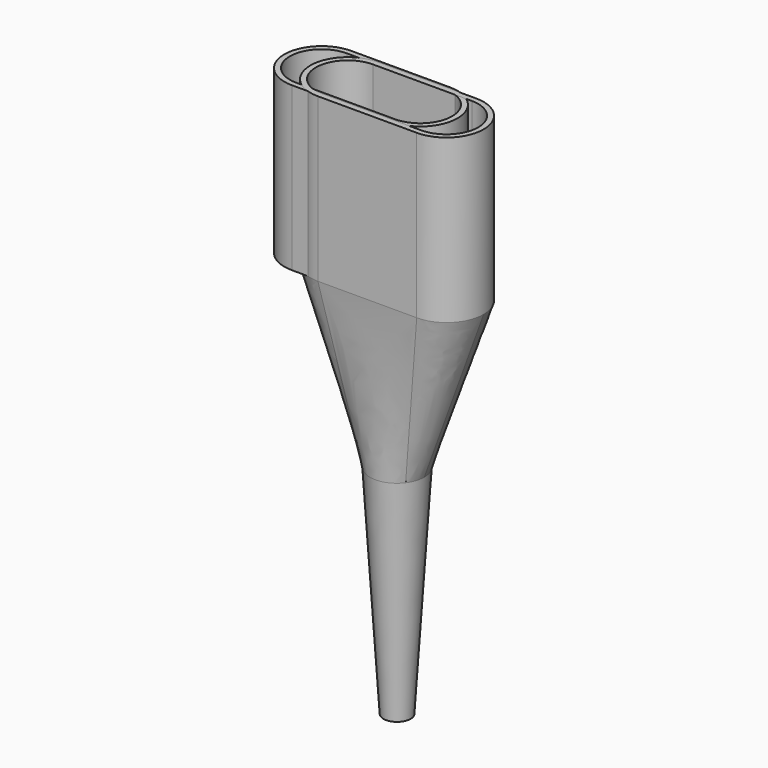
from build123d import *

# Parameters (mm, degrees)
PAD_DEPTH      = 30
THICKNESS_T    = -1
PAD001_DEPTH   = 30
THICKNESS001_T = -1
SKETCH006_R    = 5
SKETCH007_R    = 4
SKETCH010_R    = 5
SKETCH008_R    = 2.5
SKETCH011_R    = 4
SKETCH009_R    = 2


with BuildPart() as body:
    # Sketch001 → Pad (new body)
    with BuildSketch(Plane.XY):
        with BuildLine():
            Line((-14.186109, -6.501696), (4.013891, -6.501696))
            ThreePointArc((4.013891, -6.501696), (10.863891, 0.348304), (4.013891, 7.198304))
            Line((4.013891, 7.198304), (-14.186109, 7.198304))
            ThreePointArc((-14.186109, 7.198304), (-21.036109, 0.348304), (-14.186109, -6.501696))
        make_face()
    extrude(amount=PAD_DEPTH)

    # Thickness
    thickness_openings = [body.faces().sort_by_distance(p)[0] for p in [
        (-5.086109, 0.348304, 30),
        (-5.086109, 0.348304, 0),
    ]]
    offset(amount=THICKNESS_T, openings=thickness_openings)


with BuildPart() as body001:
    # Sketch → Pad001 (new body)
    with BuildSketch(Plane.XY):
        with BuildLine():
            Line((-9.1, -6.85), (9.1, -6.85))
            ThreePointArc((9.1, -6.85), (15.95, 0), (9.1, 6.85))
            Line((9.1, 6.85), (-9.1, 6.85))
            ThreePointArc((-9.1, 6.85), (-15.95, 0), (-9.1, -6.85))
        make_face()
    extrude(amount=PAD001_DEPTH)

    # Thickness001
    thickness001_openings = [body001.faces().sort_by_distance(p)[0] for p in [
        (0, 0, 30),
        (0, 0, 0),
    ]]
    offset(amount=THICKNESS001_T, openings=thickness001_openings)

    # Sketch004 → AdditiveLoft section 0
    with BuildSketch(Plane.XY):
        with BuildLine():
            Line((-9.1, -6.85), (9.1, -6.85))
            ThreePointArc((9.1, -6.85), (15.95, 0), (9.1, 6.85))
            Line((9.1, 6.85), (-9.1, 6.85))
            ThreePointArc((-9.1, 6.85), (-15.95, 0), (-9.1, -6.85))
        make_face()
    # Sketch006 (on DatumPlane) → AdditiveLoft section 1
    with BuildSketch(Plane(origin=(0, 0, -30), x_dir=(1, 0, 0), z_dir=(0, 0, -1))):
        Circle(SKETCH006_R)
    loft()

    # Sketch005 → SubtractiveLoft section 0
    with BuildSketch(Plane.XY):
        with BuildLine():
            Line((-9.1, -6), (9.1, -6))
            ThreePointArc((9.1, -6), (15.1, 0), (9.1, 6))
            Line((9.1, 6), (-9.1, 6))
            ThreePointArc((-9.1, 6), (-15.1, 0), (-9.1, -6))
        make_face()
    # Sketch007 (on DatumPlane) → SubtractiveLoft section 1
    with BuildSketch(Plane(origin=(0, 0, -30), x_dir=(1, 0, 0), z_dir=(0, 0, -1))):
        Circle(SKETCH007_R)
    loft(mode=Mode.SUBTRACT)

    # Sketch010 (on DatumPlane) → AdditiveLoft001 section 0
    with BuildSketch(Plane(origin=(0, 0, -30), x_dir=(1, 0, 0), z_dir=(0, 0, -1))):
        Circle(SKETCH010_R)
    # Sketch008 (on DatumPlane) → AdditiveLoft001 section 1
    with BuildSketch(Plane(origin=(0, 0, -70), x_dir=(1, 0, 0), z_dir=(0, 0, -1))):
        Circle(SKETCH008_R)
    loft()

    # Sketch011 (on DatumPlane) → SubtractiveLoft001 section 0
    with BuildSketch(Plane(origin=(0, 0, -30), x_dir=(1, 0, 0), z_dir=(0, 0, -1))):
        Circle(SKETCH011_R)
    # Sketch009 (on DatumPlane) → SubtractiveLoft001 section 1
    with BuildSketch(Plane(origin=(0, 0, -70), x_dir=(1, 0, 0), z_dir=(0, 0, -1))):
        Circle(SKETCH009_R)
    loft(mode=Mode.SUBTRACT)


solid = Compound([body.part, body001.part])
